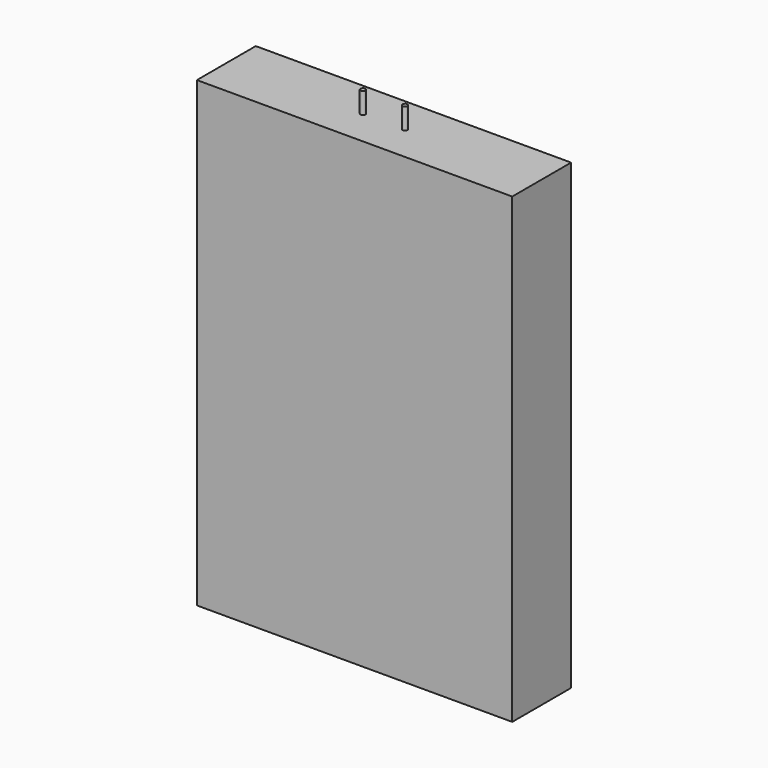
from build123d import *

# Parameters (mm, degrees)
F0_W     = 762
F0_H     = 1117.6
F1_DEPTH = 177.8
F2_R     = 6.096
F3_DEPTH = 50.8


with BuildPart() as f1:
    # F0 (on Front) → F1 (new body)
    with BuildSketch(Plane.XZ):
        with Locations((-72.582385, 105.853458)):
            Rectangle(F0_W, F0_H)
    extrude(amount=F1_DEPTH)

    # F2 (on face) → F3 (join)
    with BuildSketch(Plane.XY.offset(664.653458)):
        with Locations((-123.382385, -88.9)):
            Circle(F2_R)
        with Locations((-21.782385, -88.9)):
            Circle(F2_R)
    extrude(amount=F3_DEPTH)


solid = f1.part
